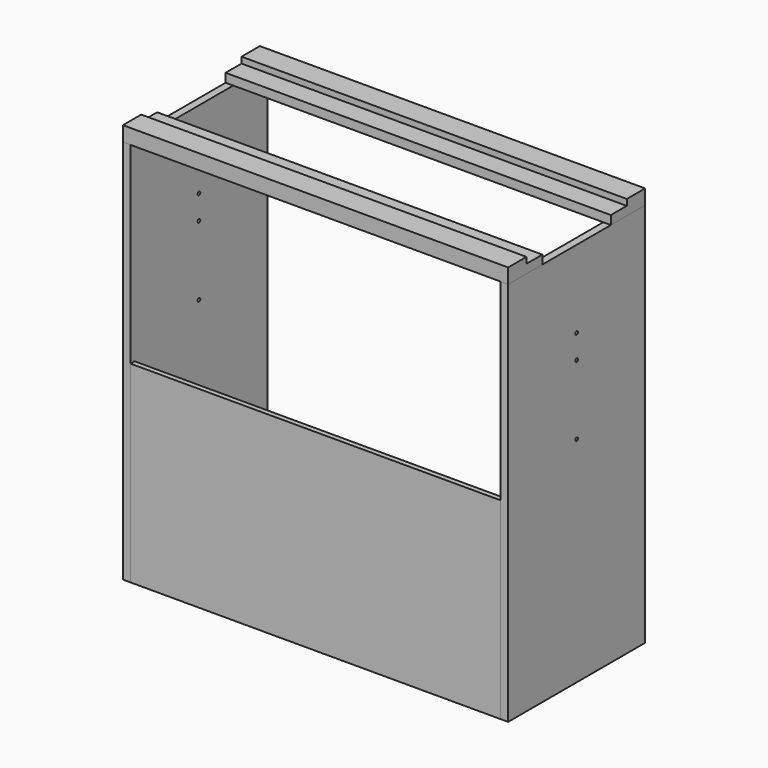
from build123d import *

# Parameters (mm, degrees)
F0_W     = 406.4
F0_H     = 914.4
F1_DEPTH = 18
F4_R     = 3.96875
F5_DEPTH = 1016
F7_DEPTH = 914.4
F8_W     = 12
F8_H     = 457.2
F9_DEPTH = 878.4


with BuildPart() as f1:
    # F0 (on Right) → F1 (new body)
    with BuildSketch(Plane.YZ):
        with Locations((203.2, 457.2)):
            Rectangle(F0_W, F0_H)
    extrude(amount=F1_DEPTH)


with BuildPart() as f3_1:
    # F3: instance of F1
    add(f1.part.mirror(Plane.YZ.offset(457.2)))


with BuildPart() as f5_tool:
    # F4 (on face) → F5 (new body, symmetric)
    with BuildSketch(Plane(origin=(896.4, 0, 0), x_dir=(0, -1, 0), z_dir=(-1, 0, 0))):
        with Locations((-203.2, 730.25)):
            Circle(F4_R)
        with Locations((-203.2, 673.1)):
            Circle(F4_R)
        with Locations((-203.2, 508)):
            Circle(F4_R)
    extrude(amount=F5_DEPTH, both=True)


with BuildPart() as f1_1:
    add(f1.part)

    # F5: cut by f5_tool
    add(f5_tool.part, mode=Mode.SUBTRACT)


with BuildPart() as f3_1_1:
    add(f3_1.part)

    # F5: cut by f5_tool
    add(f5_tool.part, mode=Mode.SUBTRACT)


with BuildPart() as f7:
    # F6 (on face) → F7 (new body, through all)
    with BuildSketch(Plane(origin=(0, 0, 0), x_dir=(0, -1, 0), z_dir=(-1, 0, 0))):
        Polygon((-101.6, 914.4), (0, 914.4), (0, 949.6947526932), (-54.3800343513, 949.6947526932), (-54.3800343513, 935.2494478226), (-101.6, 935.2494478226), align=None)
    extrude(amount=-F7_DEPTH)


with BuildPart() as f7b:
    # F6 (on face) → F7, piece 2 (new body, through all)
    with BuildSketch(Plane(origin=(0, 0, 0), x_dir=(0, -1, 0), z_dir=(-1, 0, 0))):
        Polygon((-406.4, 949.6947526932), (-406.4, 914.4), (-304.8, 914.4), (-304.8, 935.2494478226), (-352.0199656487, 935.2494478226), (-352.0199656487, 949.6947526932), align=None)
    extrude(amount=-F7_DEPTH)


with BuildPart() as f9:
    # F8 (on face) → F9 (new body, through all)
    with BuildSketch(Plane(origin=(896.4, 0, 0), x_dir=(0, -1, 0), z_dir=(-1, 0, 0))):
        with Locations((-6, 228.6)):
            Rectangle(F8_W, F8_H)
    extrude(amount=F9_DEPTH)


solid = Compound([f1_1.part, f3_1_1.part, f7.part, f7b.part, f9.part])
